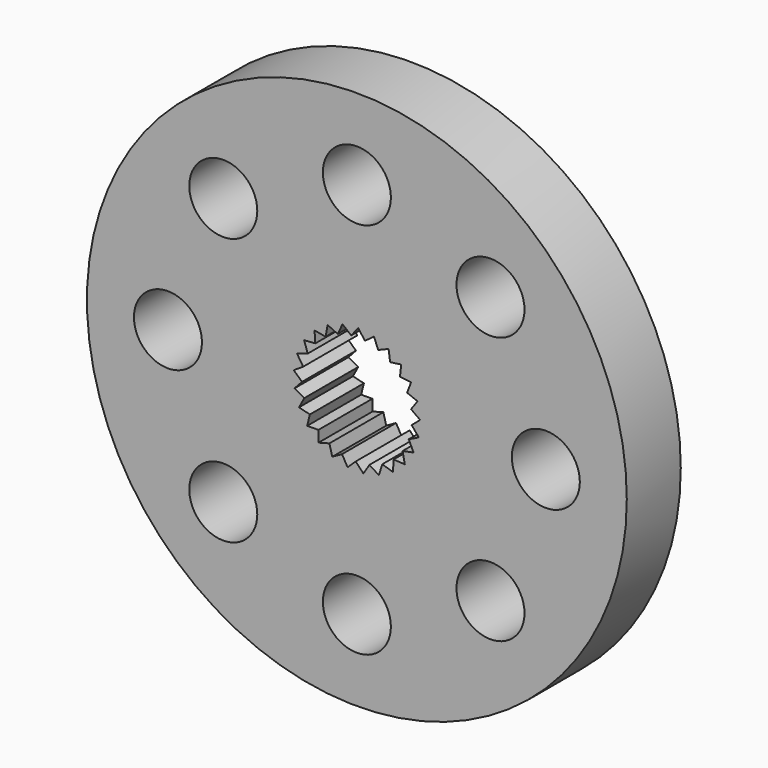
from build123d import *

# Parameters (mm, degrees)
F0_R     = 12.7
F0_R_2   = 1.6
F1_DEPTH = 3.175


with BuildPart() as f1:
    # F0 (on Front) → F1 (new body)
    with BuildSketch(Plane.XZ):
        Circle(F0_R)
        with Locations((0, -8.89)):
            Circle(F0_R_2, mode=Mode.SUBTRACT)
        with Locations((-8.89, 0)):
            Circle(F0_R_2, mode=Mode.SUBTRACT)
        with Locations((-6.286179, -6.286179)):
            Circle(F0_R_2, mode=Mode.SUBTRACT)
        with Locations((6.286179, -6.286179)):
            Circle(F0_R_2, mode=Mode.SUBTRACT)
        with Locations((8.89, 0)):
            Circle(F0_R_2, mode=Mode.SUBTRACT)
        with Locations((-6.286179, 6.286179)):
            Circle(F0_R_2, mode=Mode.SUBTRACT)
        with Locations((0, 8.89)):
            Circle(F0_R_2, mode=Mode.SUBTRACT)
        Polygon((-2.313127, 1.150841), (-2.481189, 1.651718), (-1.954254, 1.689937), (-1.992473, 2.216873), (-1.472587, 2.122848), (-1.378562, 2.642733), (-0.898392, 2.422372), (-0.678031, 2.902541), (-0.267748, 2.56969), (0.065104, 2.979972), (0.37972, 2.555544), (0.804147, 2.87016), (1.003328, 2.380825), (1.492663, 2.580005), (1.563894, 2.056509), (2.08739, 2.12774), (2.026194, 1.602976), (2.550958, 1.54178), (2.361181, 1.048721), (2.85424, 0.858945), (2.547807, 0.428572), (2.97818, 0.122139), (2.574344, -0.218506), (2.914989, -0.622342), (2.439126, -0.851855), (2.668639, -1.327718), (2.150649, -1.431678), (2.254609, -1.949669), (1.727038, -1.921544), (1.698914, -2.449115), (1.194912, -2.290672), (1.036469, -2.794674), (0.587704, -2.515869), (0.308899, -2.964634), (-0.056431, -2.582985), (-0.43808, -2.948314), (-0.69702, -2.487802), (-1.157533, -2.746742), (-1.293813, -2.236301), (-1.804254, -2.372581), (-1.809311, -1.844285), (-2.337607, -1.849342), (-2.211123, -1.336386), (-2.724079, -1.209903), (-2.474002, -0.744517), (-2.939388, -0.494441), (-2.581431, -0.105868), (-2.970004, 0.252089), (-2.526659, 0.539434), (-2.814004, 0.982779), align=None, mode=Mode.SUBTRACT)
        with Locations((6.286179, 6.286179)):
            Circle(F0_R_2, mode=Mode.SUBTRACT)
    extrude(amount=F1_DEPTH)


solid = f1.part
